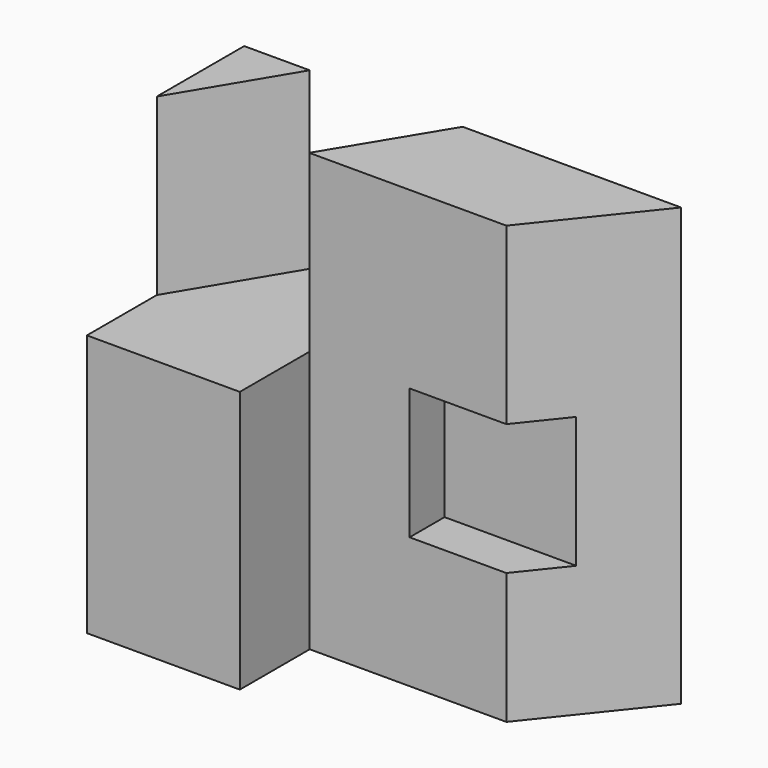
from build123d import *

# Parameters (mm, degrees)
F0_W      = 100
F0_H      = 100
F1_DEPTH  = 45
F2_W      = 65
F2_H      = 20
F3_DEPTH  = 100
F5_DEPTH  = 100
F7_DEPTH  = 40
F10_DEPTH = 85
F11_W     = 14.643555
F11_H     = 30
F11_W_2   = 22.142187
F12_DEPTH = 10


with BuildPart() as f1:
    # F0 (on Front) → F1 (new body)
    with BuildSketch(Plane.XZ):
        with Locations((-50, 50)):
            Rectangle(F0_W, F0_H)
    extrude(amount=F1_DEPTH)

    # F2 (on face) → F3 (cut, through all)
    with BuildSketch(Plane.XY.offset(100)):
        with Locations((-32.5, -35)):
            Rectangle(F2_W, F2_H)
    extrude(amount=-F3_DEPTH, mode=Mode.SUBTRACT)

    # F4 (on face) → F5 (cut, through all)
    with BuildSketch(Plane.XY.offset(100)):
        Polygon((0, -25), (0, 0), (-20, -25), align=None)
    extrude(amount=-F5_DEPTH, mode=Mode.SUBTRACT)

    # F2 (on face) → F7 (cut, through all)
    with BuildSketch(Plane.XY.offset(100)):
        Polygon((-65, 0), (-85, 0), (-100, -25), (-100, -45), (-65, -45), (-65, -25), align=None)
    extrude(amount=-F7_DEPTH, mode=Mode.SUBTRACT)

    # F8 (on face) → F10 (cut, through all)
    with BuildSketch(Plane.XY.offset(100)):
        Polygon((-50, 0), (-65, 0), (-65, -24.8), align=None)
    extrude(amount=-F10_DEPTH, mode=Mode.SUBTRACT)

    # F11 (on face) → F12 (cut)
    with BuildSketch(Plane.XZ.offset(25)):
        with Locations((-12.678223, 45)):
            Rectangle(F11_W, F11_H)
        with Locations((-31.071093, 45)):
            Rectangle(F11_W_2, F11_H)
    extrude(amount=-F12_DEPTH, mode=Mode.SUBTRACT)


solid = f1.part
